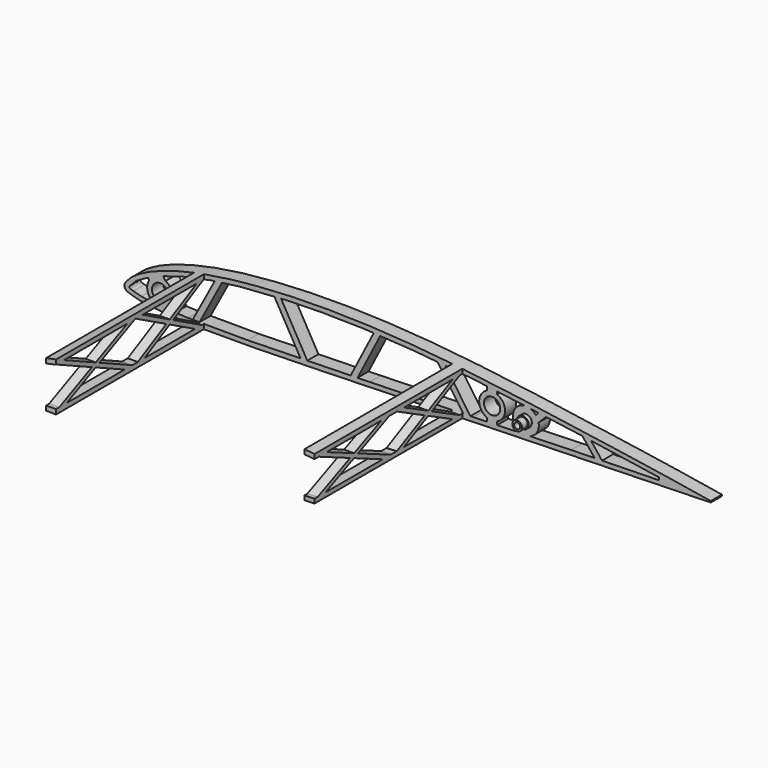
from build123d import *

# Parameters (mm, degrees)
PAD105_DEPTH    = 99.95
POCKET125_DEPTH = 99.95
SKETCH233_W     = 94.552856
SKETCH233_H     = 125.009666
POCKET126_DEPTH = 2.5
SKETCH235_W     = 55
SKETCH235_H     = 110
SKETCH235_W_2   = 125
SKETCH235_W_3   = 130
POCKET127_DEPTH = 50
SKETCH234_R     = 4.1
PAD106_DEPTH    = 7
PAD107_DEPTH    = 5
PAD108_DEPTH    = 5
SKETCH_R        = 6.5
PAD109_DEPTH    = 7
SKETCH238_R     = 3
PAD110_DEPTH    = 5.5
SKETCH239_R     = 3.5
SKETCH239_R_2   = 2.45
SKETCH239_R_3   = 1.5
POCKET128_DEPTH = 3.5


with BuildPart() as part:
    # Sketch231 → Pad105 (new body)
    with BuildSketch(Plane.XZ):
        with BuildLine():
            add(Edge.make_bspline(
                [(299.999063, 0.026825), (299.662766, 0.037193), (298.339429, 0.190401), (295.439956, 0.589669), (290.775356, 1.337839), (284.500044, 2.393262), (276.735212, 3.66473), (267.577355, 5.083019), (257.136483, 6.653879), (245.549215, 8.381993), (232.975291, 10.222771), (219.590016, 12.153256), (205.573823, 14.115503), (191.111579, 16.055183), (176.381713, 17.897983), (161.544489, 19.553409), (146.739309, 20.940939), (132.087536, 21.99009), (117.705275, 22.664279), (103.703346, 22.961168), (90.192549, 22.858072), (77.284675, 22.375726), (65.094168, 21.544938), (53.730431, 20.369385), (43.29002, 18.857963), (33.852484, 17.043697), (25.485501, 14.967735), (18.252292, 12.67281), (12.179436, 10.224412), (7.338355, 7.689021), (3.623023, 5.152403), (1.3546, 2.748114), (-0.314638, 0.590402), (0.575789, -1.804065), (3.482069, -2.72942), (7.386052, -3.91761), (13.030922, -4.754284), (20.096342, -5.463024), (28.645402, -5.933379), (38.56853, -6.201185), (49.790194, -6.284208), (62.196701, -6.193111), (75.660953, -5.967607), (90.034637, -5.629522), (105.153445, -5.226063), (120.83724, -4.775199), (136.895942, -4.296045), (153.13493, -3.818601), (169.356828, -3.345106), (185.36574, -2.889379), (200.968742, -2.465331), (215.974941, -2.074889), (230.201502, -1.715375), (243.47905, -1.394255), (255.639348, -1.103787), (266.55871, -0.849968), (276.034544, -0.603524), (284.209012, -0.340437), (290.324953, -0.117215), (295.955653, 0.018504), (297.364702, 0.013759), (300.343856, 0.01512), (300.000055, 0.026794), (299.999063, 0.026825)],
                knots=[0, 0, 0, 0, 1.017748, 3.99659, 8.779341, 15.189917, 23.087031, 32.383824, 42.990765, 54.76218, 67.530065, 81.114584, 95.333435, 109.988542, 124.889458, 139.866624, 154.774633, 169.496697, 183.930349, 197.964304, 211.506735, 224.45797, 236.709214, 248.156653, 258.723012, 268.346769, 276.97692, 284.567784, 291.102108, 296.573756, 300.992679, 304.39163, 306.761357, 308.43213, 311.131254, 315.298227, 320.951765, 328.080828, 336.654655, 346.609821, 357.866231, 370.316475, 383.83025, 398.264023, 413.449345, 429.202773, 445.334827, 461.646891, 477.940787, 494.021253, 509.693044, 524.767168, 539.054704, 552.387642, 564.607107, 575.560217, 585.109622, 593.180747, 599.700326, 604.53767, 607.540683, 608.560842, 608.563842, 608.563842, 608.563842, 608.563842], degree=3))
        make_face()
    extrude(amount=PAD105_DEPTH)

    # Sketch232 (on Face3 of Pad105) → Pocket125 (cut)
    with BuildSketch(Plane.XZ.offset(99.95)):
        with BuildLine():
            Line((2.713263, 0.775372), (3.386703, 1.523026))
            Line((3.386703, 1.523026), (5.993214, 4.179621))
            Line((5.993214, 4.179621), (11.230826, 7.180706))
            Line((11.230826, 7.180706), (18.928726, 10.492708))
            Line((18.928726, 10.492708), (30.015602, 13.804502))
            Line((30.015602, 13.804502), (43.705284, 16.658491))
            Line((43.705284, 16.658491), (58.37534, 18.58366))
            Line((58.37534, 18.58366), (81.932846, 20.199753))
            Line((81.932846, 20.199753), (99.115959, 20.581533))
            Line((99.115959, 20.581533), (120.506348, 20.199753))
            Line((120.506348, 20.199753), (145.772324, 18.655943))
            Line((145.772324, 18.655943), (175.747543, 15.772772))
            Line((175.747543, 15.772772), (200.435547, 12.569891))
            Line((200.435547, 12.569891), (229.384109, 8.602522))
            Line((229.384109, 8.602522), (252.135086, 5.213018))
            Line((252.135086, 5.213018), (269.069916, 2.671427))
            Line((269.069916, 2.671427), (269.069916, 1.39956))
            Line((269.069916, 1.39956), (224.761032, 0.436598))
            Line((224.761032, 0.436598), (175.486649, -1.027315))
            Line((175.486649, -1.027315), (123.47789, -2.412929))
            Line((123.47789, -2.412929), (62.077515, -3.876549))
            Line((62.077515, -3.876549), (32.052879, -3.760909))
            Line((32.052879, -3.760909), (18.887957, -3.18288))
            Line((18.887957, -3.18288), (12.728564, -2.489715))
            Line((12.728564, -2.489715), (8.493419, -1.872198))
            Line((8.493419, -1.872198), (4.562357, -0.768246))
            Line((4.562357, -0.768246), (3.013953, -0.301296))
            ThreePointArc((2.713263, 0.775372), (2.567567, 0.15436), (3.013953, -0.301296))
        make_face()
    extrude(amount=-POCKET125_DEPTH, mode=Mode.SUBTRACT)

    # Sketch233 → Pocket126 (cut, symmetric)
    with BuildSketch(Plane.XY):
        with Locations((342.276428, -45.135685)):
            Rectangle(SKETCH233_W, SKETCH233_H)
    extrude(amount=POCKET126_DEPTH, both=True, mode=Mode.SUBTRACT)

    # Sketch235 → Pocket127 (cut, symmetric)
    with BuildSketch(Plane.XY):
        with Locations((7.5, -62)):
            Rectangle(SKETCH235_W, SKETCH235_H)
        with Locations((102.5, -62)):
            Rectangle(SKETCH235_W_2, SKETCH235_H)
        with Locations((235, -62)):
            Rectangle(SKETCH235_W_3, SKETCH235_H)
    extrude(amount=POCKET127_DEPTH, both=True, mode=Mode.SUBTRACT)

    # Sketch234 (on Face16 of Pocket127) → Pad106 (join)
    with BuildSketch(Plane.XZ.offset(7)):
        Polygon((45.883972, 17.721869), (33.929979, -4.654965), (37.331221, -4.654965), (49.864502, 18.806244), align=None)
        with BuildLine():
            ThreePointArc((12.49229, 6.45183), (11.877033, 0.818423), (15.915785, -3.156789))
            Line((15.915785, -3.156789), (16.615922, -4.582716))
            Line((16.615922, -4.582716), (26.093039, -4.582716))
            Line((23.927186, 0.331954), (26.093039, -4.582716))
            ThreePointArc((23.927186, 0.331954), (24.083233, 5.290038), (20.696327, 8.914374))
            Line((20.696327, 8.914374), (19.191151, 11.361285))
            Line((11.725203, 8.211095), (19.191151, 11.361285))
            Line((12.49229, 6.45183), (11.725203, 8.211095))
        make_face()
        with Locations((18, 3)):
            Circle(SKETCH234_R, mode=Mode.SUBTRACT)
        Polygon((74.837349, 20.968384), (89.206329, -4.249731), (92.659144, -4.249731), (78.184032, 21.154647), align=None)
        Polygon((113.371621, -3.617416), (125.992361, 20.986459), (129.33754, 20.934824), (116.743287, -3.617416), align=None)
        Polygon((156.489991, 19.012594), (171.223801, -2.187052), (175.064011, -2.455857), (160.385949, 18.663577), align=None)
        Polygon((195.991472, -1.145031), (209.190294, 12.320477), (213.439896, 12.370226), (200.19231, -1.145031), align=None)
        Polygon((229.837707, 9.194464), (237.095519, 0), (240.917549, 0), (234.226173, 8.476883), align=None)
        with BuildLine():
            ThreePointArc((182.5, 13), (178.5, 7), (182.5, 1))
            Line((182.5, 1), (182.5, -1.799935))
            Line((182.5, -1.799935), (187.5, -1.799935))
            Line((187.5, -1.799935), (187.5, 1))
            ThreePointArc((187.5, 1), (191.5, 7), (187.5, 13))
            Line((187.5, 15.534908), (187.5, 13))
            Line((182.5, 15.936711), (187.5, 15.534908))
            Line((182.5, 13), (182.5, 15.936711))
        make_face()
        with Locations((185, 7)):
            Circle(SKETCH234_R, mode=Mode.SUBTRACT)
    extrude(amount=-PAD106_DEPTH)

    # Sketch236 (on Face12 of Pad106) → Pad107 (join)
    with BuildSketch(Plane(origin=(35, 0, 0), x_dir=(0, 0, -1), z_dir=(-1, 0, 0))):
        Polygon((-17.098402, 50), (-16.000205, 50), (5.939144, 8.475523), (5.961339, 7.089303), (4.409559, 7.089303), (-17.122807, 47.843484), align=None)
        Polygon((-17.129333, 7.10705), (-17.129333, 9.145432), (4.558284, 50), (5.87403, 50.001778), (5.939742, 48.336863), (-15.947074, 7.10705), align=None)
        Polygon((-17.135797, 50), (-15.97758, 50.087739), (5.971195, 97.920066), (5.971195, 99.859802), (4.66077, 99.859802), (-17.135797, 52.359178), align=None)
        Polygon((-15.957584, 99.885406), (-17.033993, 99.885406), (-17.078244, 97.5311), (4.717648, 50), (5.827496, 50.157914), (5.827496, 52.377885), align=None)
    extrude(amount=-PAD107_DEPTH)

    # Sketch237 (on Face7 of Pad107) → Pad108 (join)
    with BuildSketch(Plane(origin=(170, 0, 0), x_dir=(0, 0, 1), z_dir=(1, 0, 0))):
        Polygon((-3.230705, 7.091972), (-2.057019, 7.091972), (18.437528, 47.77545), (18.437528, 50), (17.308382, 49.979477), (-3.230705, 9.207583), align=None)
        Polygon((17.122561, 7.079828), (18.495286, 7.079828), (18.495286, 8.806629), (-2.098574, 50), (-3.175621, 49.915909), (-3.175621, 47.681762), align=None)
        Polygon((-3.193453, 99.869281), (-2.030565, 99.869281), (18.427737, 53.149961), (18.502468, 50), (17.575653, 50.109833), (-3.193453, 97.538917), align=None)
        Polygon((-3.223656, 50), (-3.223656, 52.317749), (17.471001, 99.860643), (18.452137, 99.860643), (18.452137, 97.103538), (-2.059094, 49.982041), align=None)
    extrude(amount=-PAD108_DEPTH)

    # Sketch (on Face3 of Pad108) → Pad109 (join)
    with BuildSketch(Plane.XZ.offset(7)):
        with Locations((202, 6)):
            Circle(SKETCH_R)
    extrude(amount=-PAD109_DEPTH)

    # Sketch238 (on Face88 of Pad109) → Pad110 (join)
    with BuildSketch(Plane.XZ.offset(7)):
        with Locations((202, 6)):
            Circle(SKETCH238_R)
    extrude(amount=PAD110_DEPTH)

    # Sketch239 (on Face134 of Pad110) → Pocket128 (cut)
    with BuildSketch(Plane.XZ.offset(12.5)):
        with Locations((202, 6)):
            Circle(SKETCH239_R)
        with Locations((202, 6)):
            Circle(SKETCH239_R_2, mode=Mode.SUBTRACT)
        with Locations((202, 6)):
            Circle(SKETCH239_R_3)
    extrude(amount=-POCKET128_DEPTH, mode=Mode.SUBTRACT)


with BuildPart() as part_1:
    # Body044 placement: moved
    add(part.part.moved(Location((0, -600, 0))))


solid = part_1.part
